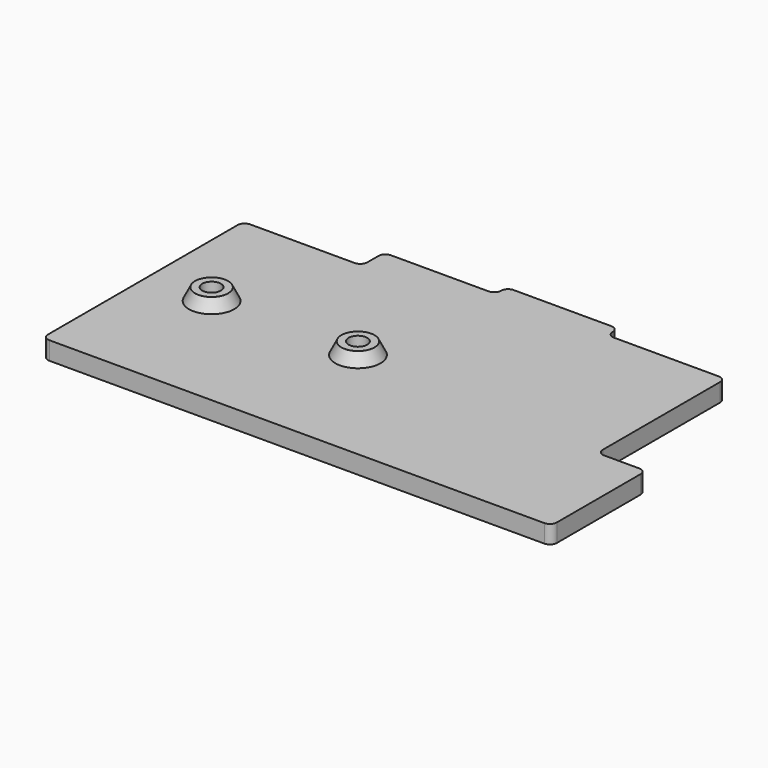
from build123d import *

# Parameters (mm, degrees)
PAD_DEPTH     = 3
SKETCH001_R   = 2.75
PAD001_DEPTH  = 2
CHAMFER_SIZE2 = 1.99
CHAMFER_SIZE  = 1
SKETCH002_R   = 1.55
POCKET_DEPTH  = 5
FILLET_R      = 1.15625


with BuildPart() as part:
    # Sketch → Pad (new body)
    with BuildSketch(Plane.XY):
        Polygon((0, 0), (0, 41.625), (19.656, 41.625), (19.656, 46.25), (38.156, 46.25), (38.156, 48.563), (56.656, 48.563), (56.656, 46.25), (76.312, 46.25), (76.312, 19.656), (84.406, 19.656), (84.406, 0), align=None)
    extrude(amount=PAD_DEPTH)

    # Sketch001 (on Face14 of Pad) → Pad001 (join)
    with BuildSketch(Plane.XY.offset(3)):
        with Locations((10.657, 21.75)):
            Circle(SKETCH001_R)
        with Locations((34.938, 21.75)):
            Circle(SKETCH001_R)
    extrude(amount=PAD001_DEPTH)

    # Chamfer
    chamfer_edges = [part.edges().sort_by_distance(p)[0] for p in [
        (7.907, 21.75, 3),
        (32.188, 21.75, 3),
    ]]
    chamfer_side = part.faces().sort_by_distance((41.05483, 22.316964, 3))[0]
    chamfer(chamfer_edges, length=CHAMFER_SIZE, length2=CHAMFER_SIZE2, reference=chamfer_side)

    # Sketch002 (on Face19 of Chamfer) → Pocket (cut)
    with BuildSketch(Plane.XY.offset(5)):
        with Locations((10.657, 21.75)):
            Circle(SKETCH002_R)
        with Locations((34.938, 21.75)):
            Circle(SKETCH002_R)
    extrude(amount=-POCKET_DEPTH, mode=Mode.SUBTRACT)

    # Fillet
    fillet_edges = [part.edges().sort_by_distance(p)[0] for p in [
        (84.406, 0, 1.5),
        (84.406, 19.656, 1.5),
        (76.312, 19.656, 1.5),
        (76.312, 46.25, 1.5),
        (56.656, 46.25, 1.5),
        (56.656, 48.563, 1.5),
        (38.156, 48.563, 1.5),
        (19.656, 46.25, 1.5),
        (0, 41.625, 1.5),
        (38.156, 46.25, 1.5),
        (19.656, 41.625, 1.5),
        (0, 0, 1.5),
    ]]
    fillet(fillet_edges, radius=FILLET_R)


solid = part.part
